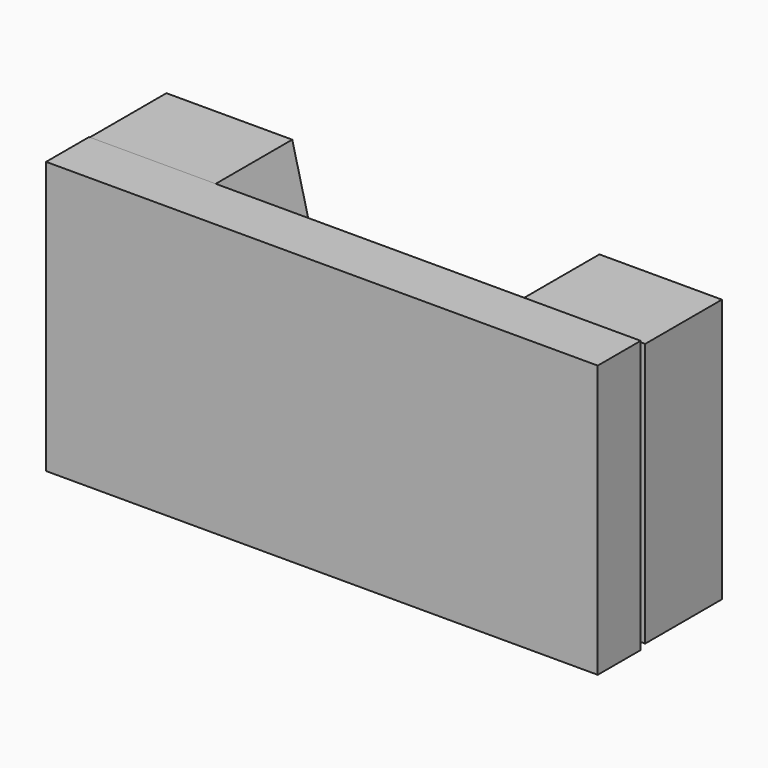
from build123d import *

# Parameters (mm, degrees)
F0_W     = 146.05
F0_H     = 72.072831
F1_DEPTH = 14.224
F3_DEPTH = 25.4


with BuildPart() as f1:
    # F0 (on Front) → F1 (new body)
    with BuildSketch(Plane.XZ):
        with Locations((0, 1.472069)):
            Rectangle(F0_W, F0_H)
    extrude(amount=F1_DEPTH)


with BuildPart() as f3:
    # F2 (on Front) → F3 (new body)
    with BuildSketch(Plane.XZ):
        Polygon((74.201309, 37.163116), (41.76426, 37.163116), (23.401309, -32.686884), (74.201309, -32.686884), align=None)
        Polygon((-22.068854, -32.39541), (-39.557378, 37.45459), (-72.868854, 37.45459), (-72.868854, -32.39541), align=None)
    extrude(amount=-F3_DEPTH)


solid = Compound([f1.part, f3.part])
